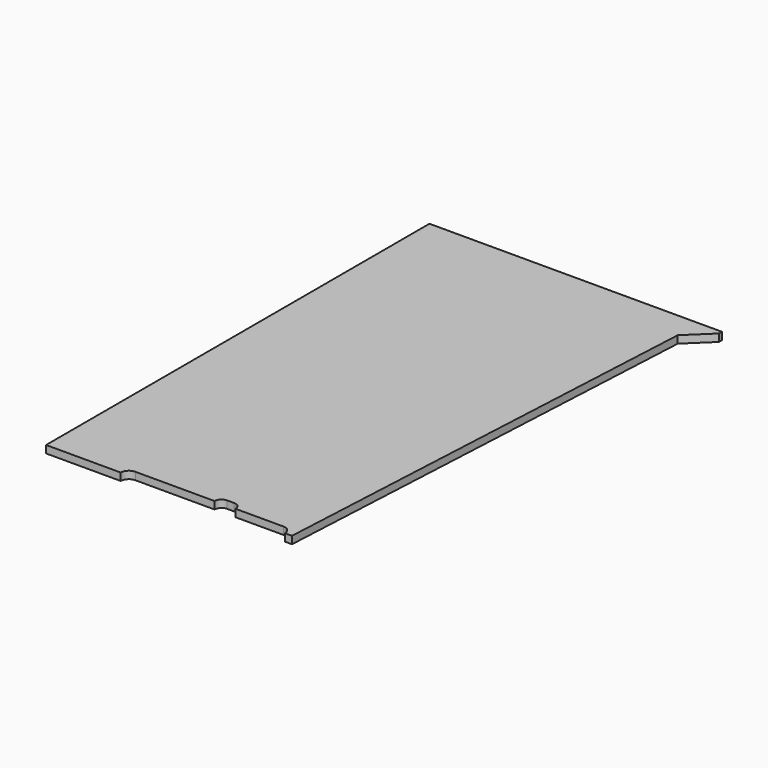
from build123d import *

# Parameters (mm, degrees)
F1_DEPTH = 2.54


with BuildPart() as f1:
    # F0 (on Top) → F1 (new body)
    with BuildSketch(Plane.XY):
        with BuildLine():
            Line((99.615625, 0), (0, 0))
            Line((0, 0), (0, -163.195))
            Line((0, -163.195), (25.4, -163.195))
            ThreePointArc((25.4, -163.195), (26.213694, -161.230569), (28.178125, -160.416875))
            Line((28.178125, -160.416875), (55.165625, -160.416875))
            ThreePointArc((55.165625, -160.416875), (55.863077, -158.733077), (57.546875, -158.035625))
            Line((57.546875, -158.035625), (59.928125, -158.035625))
            ThreePointArc((59.928125, -158.035625), (61.611923, -158.733077), (62.309375, -160.416875))
            Line((62.309375, -160.416875), (78.58125, -160.416875))
            ThreePointArc((78.58125, -160.416875), (80.545681, -161.230569), (81.359375, -163.195))
            Line((81.359375, -163.195), (83.740625, -163.195))
            Line((83.740625, -163.195), (91.678125, -8.89))
            Line((91.678125, -8.89), (99.615625, -1.27))
            Line((99.615625, -1.27), (99.615625, 0))
        make_face()
    extrude(amount=F1_DEPTH)


solid = f1.part
